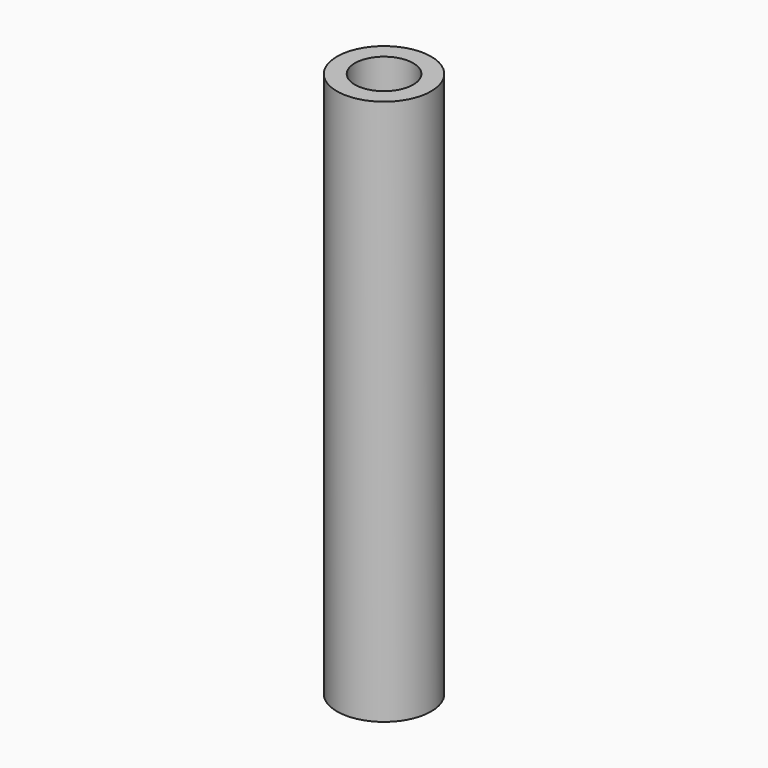
from build123d import *

# Parameters (mm, degrees)
SKETCH_R   = 2.5
SKETCH_R_2 = 1.55
PAD_DEPTH  = 29


with BuildPart() as part:
    # Sketch → Pad (new body)
    with BuildSketch(Plane.XY):
        Circle(SKETCH_R)
        Circle(SKETCH_R_2, mode=Mode.SUBTRACT)
    extrude(amount=PAD_DEPTH)


solid = part.part
